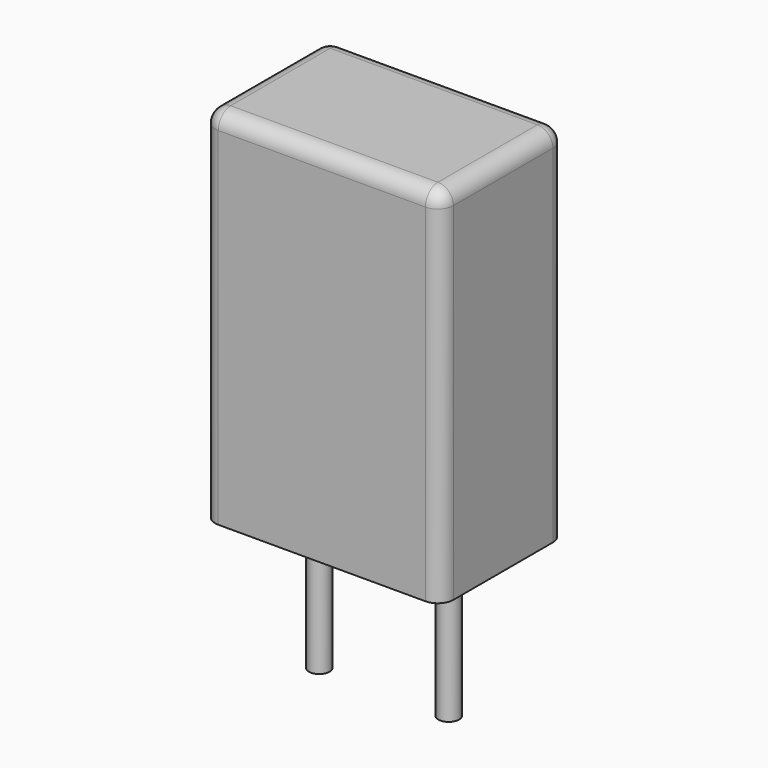
from build123d import *

# Parameters (mm, degrees)
SKETCH_W     = 4.6
SKETCH_H     = 3
PAD_DEPTH    = 7
FILLET_R     = 0.3
SKETCH001_R  = 0.2
PAD001_DEPTH = 3.2


with BuildPart() as fillet_body:
    # Sketch → Pad (new body)
    with BuildSketch(Plane.XY.offset(0.1)):
        with Locations((1.25, 0)):
            Rectangle(SKETCH_W, SKETCH_H)
    extrude(amount=PAD_DEPTH)

    # Fillet
    fillet_edges = [fillet_body.edges().sort_by_distance(p)[0] for p in [
        (-1.05, 0, 7.1),
        (-1.05, -1.5, 3.6),
        (1.25, -1.5, 7.1),
        (3.55, -1.5, 3.6),
        (3.55, 0, 7.1),
        (3.55, 1.5, 3.6),
        (1.25, 1.5, 7.1),
        (-1.05, 1.5, 3.6),
    ]]
    fillet(fillet_edges, radius=FILLET_R)


with BuildPart() as pad001:
    # Sketch001 → Pad001 (new body)
    with BuildSketch(Plane.XY.offset(0.5)):
        Circle(SKETCH001_R)
        with Locations((2.5, 0)):
            Circle(SKETCH001_R)
    extrude(amount=-PAD001_DEPTH)


solid = Compound([fillet_body.part, pad001.part])
